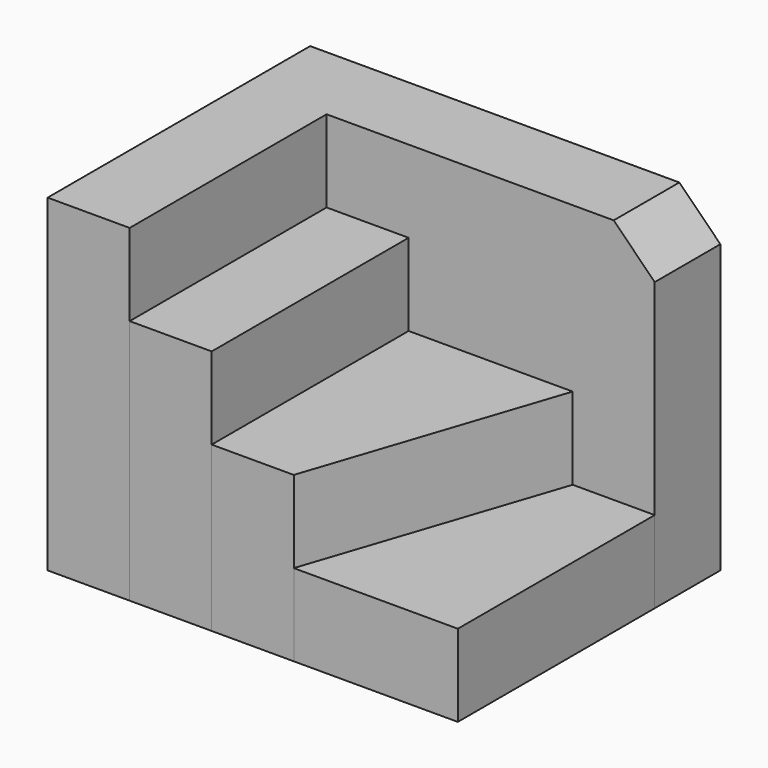
from build123d import *

# Parameters (mm, degrees)
F1_DEPTH = 40
F0_W     = 10
F0_H     = 30
F2_DEPTH = 30
F3_DEPTH = 20
F4_DEPTH = 10
F5_SIZE  = 5


with BuildPart() as f1:
    # F0 (on Top) → F1 (new body)
    with BuildSketch(Plane.XY):
        Polygon((0, 40), (0, 0), (10, 0), (10, 30), (20, 30), (40, 30), (50, 30), (50, 40), align=None)
    extrude(amount=F1_DEPTH)

    # F5
    f5_edges = [f1.edges().sort_by_distance(p)[0] for p in [
        (50, 35, 40),
    ]]
    chamfer(f5_edges, length=F5_SIZE)


with BuildPart() as f2:
    # F0 (on Top) → F2 (new body)
    with BuildSketch(Plane.XY):
        with Locations((15, 15)):
            Rectangle(F0_W, F0_H)
    extrude(amount=F2_DEPTH)


with BuildPart() as f3:
    # F0 (on Top) → F3 (new body)
    with BuildSketch(Plane.XY):
        Polygon((20, 30), (20, 0), (30, 0), (40, 30), align=None)
    extrude(amount=F3_DEPTH)


with BuildPart() as f4:
    # F0 (on Top) → F4 (new body)
    with BuildSketch(Plane.XY):
        Polygon((40, 30), (30, 0), (50, 0), (50, 30), align=None)
    extrude(amount=F4_DEPTH)


solid = Compound([f1.part, f2.part, f3.part, f4.part])
